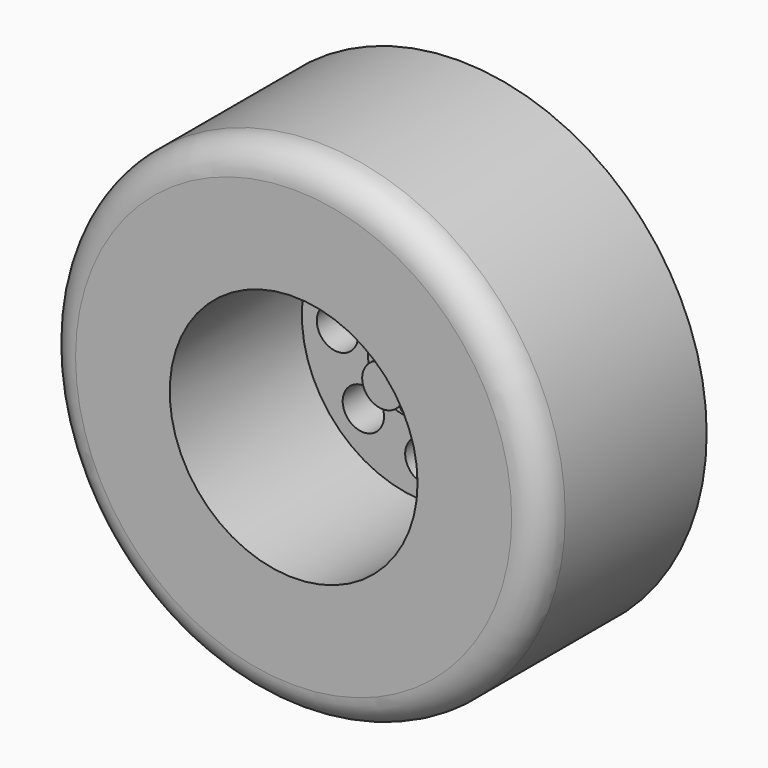
from build123d import *

# Parameters (mm, degrees)
F0_R      = 19.05
F1_DEPTH  = 15.875
F2_R      = 9.525
F3_DEPTH  = 12.7
F4_R      = 18.3769
F4_R_2    = 10.16
F5_DEPTH  = 12.7
F6_R      = 1.5875
F7_DEPTH  = 25.4
F8_R      = 3.175
F9_DEPTH  = 1.5875
F10_R     = 1.5875
F11_DEPTH = 2.54
F12_R     = 0.254
F13_DEPTH = 0.508
F14_R     = 2.38125
F14_R_2   = 1.5875
F15_DEPTH = 8.89
F16_R     = 2.286


with BuildPart() as f1:
    # F0 (on Front) → F1 (new body)
    with BuildSketch(Plane.XZ):
        Circle(F0_R)
    extrude(amount=F1_DEPTH)

    # F2 (on face) → F3 (cut)
    with BuildSketch(Plane.XZ.offset(15.875)):
        Circle(F2_R)
    extrude(amount=-F3_DEPTH, mode=Mode.SUBTRACT)

    # F4 (on face) → F5 (cut)
    with BuildSketch(Plane(origin=(0, 0, 0), x_dir=(-1, 0, 0), z_dir=(0, 1, 0))):
        Circle(F4_R)
        Circle(F4_R_2, mode=Mode.SUBTRACT)
    extrude(amount=-F5_DEPTH, mode=Mode.SUBTRACT)

    # F6 (on face) → F7 (cut)
    with BuildSketch(Plane.XZ.offset(3.175)):
        with BuildLine():
            ThreePointArc((0, 5.2043736776), (1.1225320151, 5.6693416624), (1.5875, 6.7918736776))
            ThreePointArc((1.5875, 6.7918736776), (-1.1225320151, 7.9144056927), (0, 5.2043736776))
        make_face()
        with Locations((-4.8025799344, 4.8025799344)):
            Circle(F6_R)
        with Locations((-6.7918736776, 0)):
            Circle(F6_R)
        with Locations((-4.8025799344, -4.8025799344)):
            Circle(F6_R)
        with Locations((0, -6.7918736776)):
            Circle(F6_R)
        with Locations((4.8025799344, -4.8025799344)):
            Circle(F6_R)
        with Locations((6.7918736776, 0)):
            Circle(F6_R)
        with Locations((4.8025799344, 4.8025799344)):
            Circle(F6_R)
    extrude(amount=-F7_DEPTH, mode=Mode.SUBTRACT)

    # F8 (on face) → F9 (join)
    with BuildSketch(Plane.XZ.offset(3.175)):
        Circle(F8_R)
    extrude(amount=F9_DEPTH)

    # F10 (on face) → F11 (join)
    with BuildSketch(Plane.XZ.offset(4.7625)):
        Circle(F10_R)
    extrude(amount=F11_DEPTH)

    # F12 (on face) → F13 (join)
    with BuildSketch(Plane.XZ.offset(4.7625)):
        with BuildLine():
            ThreePointArc((0, 2.6449868941), (-0.254, 2.3909868941), (0, 2.1369868941))
            Line((0, 2.1369868941), (0, 2.6449868941))
        make_face()
        with BuildLine():
            Line((0, 2.6449868941), (0, 2.1369868941))
            ThreePointArc((0, 2.1369868941), (0.1796051224, 2.2113817717), (0.254, 2.3909868941))
            ThreePointArc((0.254, 2.3909868941), (0.1796051224, 2.5705920165), (0, 2.6449868941))
        make_face()
        with Locations((1.4053868348, 1.9343490307)):
            Circle(F12_R)
        with Locations((2.273963666, 0.7388555836)):
            Circle(F12_R)
        with Locations((2.273963666, -0.7388555836)):
            Circle(F12_R)
        with Locations((0, -2.3909868941)):
            Circle(F12_R)
        with Locations((-1.4053868348, -1.9343490307)):
            Circle(F12_R)
        with Locations((1.4053868348, -1.9343490307)):
            Circle(F12_R)
        with Locations((-2.273963666, 0.7388555836)):
            Circle(F12_R)
        with Locations((-1.4053868348, 1.9343490307)):
            Circle(F12_R)
        with Locations((-2.273963666, -0.7388555836)):
            Circle(F12_R)
    extrude(amount=F13_DEPTH)

    # F14 (on face) → F15 (join)
    with BuildSketch(Plane(origin=(0, 0, 0), x_dir=(-1, 0, 0), z_dir=(0, 1, 0))):
        Circle(F14_R)
        Circle(F14_R_2, mode=Mode.SUBTRACT)
    extrude(amount=F15_DEPTH)

    # F16
    f16_edges = [f1.edges().sort_by_distance(p)[0] for p in [
        (-19.05, -15.875, 0),
    ]]
    fillet(f16_edges, radius=F16_R)


solid = f1.part
